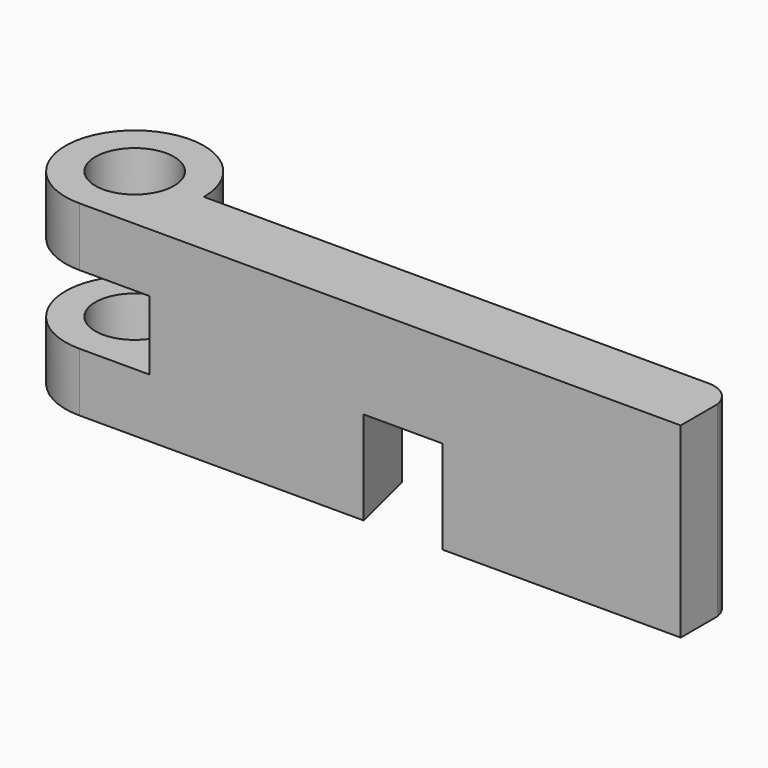
from build123d import *

# Parameters (mm, degrees)
F0_R     = 12.7
F1_DEPTH = 60.325
F2_DEPTH = 30.1625
F3_W     = 31.937063
F3_H     = 22.3266
F3_W_2   = 22.687722
F4_DEPTH = 56.743083
F6_DEPTH = 30.1625


with BuildPart() as f1:
    # F0 (on Top) → F1 (new body)
    with BuildSketch(Plane.XY):
        with BuildLine():
            Line((85.852, 0), (22.352, 0))
            ThreePointArc((22.352, 0), (-15.805251, 15.805251), (0, -22.352))
            Line((0, -22.352), (91.8464, -22.352))
            Line((91.8464, -22.352), (85.852, 0))
        make_face()
        Circle(F0_R, mode=Mode.SUBTRACT)
        Polygon((117.2464, 0), (85.852, 0), (91.8464, -22.352), (117.2464, -22.352), align=None)
        with BuildLine():
            Line((150.0886, 0), (117.2464, 0))
            Line((117.2464, 0), (117.2464, -22.352))
            Line((117.2464, -22.352), (194.2084, -22.352))
            Line((194.2084, -22.352), (194.2084, -7.573048))
            ThreePointArc((194.2084, -7.573048), (191.161905, -2.150228), (185.325414, 0))
            Line((185.325414, 0), (162.975117, 0))
            Line((162.975117, 0), (150.0886, 0))
        make_face()
    extrude(amount=F1_DEPTH)

    # F0 (on Top) → F2 (join)
    with BuildSketch(Plane.XY):
        with BuildLine():
            Line((85.852, 0), (22.352, 0))
            ThreePointArc((22.352, 0), (-15.805251, 15.805251), (0, -22.352))
            Line((0, -22.352), (91.8464, -22.352))
            Line((91.8464, -22.352), (85.852, 0))
        make_face()
        Circle(F0_R, mode=Mode.SUBTRACT)
        Polygon((117.2464, 0), (85.852, 0), (91.8464, -22.352), (117.2464, -22.352), align=None)
        with BuildLine():
            Line((150.0886, 0), (117.2464, 0))
            Line((117.2464, 0), (117.2464, -22.352))
            Line((117.2464, -22.352), (194.2084, -22.352))
            Line((194.2084, -22.352), (194.2084, -7.573048))
            ThreePointArc((194.2084, -7.573048), (191.161905, -2.150228), (185.325414, 0))
            Line((185.325414, 0), (162.975117, 0))
            Line((162.975117, 0), (150.0886, 0))
        make_face()
        with BuildLine():
            ThreePointArc((131.0386, 34.390083), (127.389769, 15.892719), (117.2464, 0))
            Line((117.2464, 0), (150.0886, 0))
            Line((150.0886, 0), (150.0886, 30.665313))
            ThreePointArc((150.0886, 30.665313), (148.268569, 33.353038), (145.192709, 34.390083))
            Line((145.192709, 34.390083), (131.0386, 34.390083))
        make_face()
    extrude(amount=F2_DEPTH)

    # F3 (on face) → F4 (cut, through all)
    with BuildSketch(Plane.XZ.offset(22.352)):
        with Locations((-15.968531, 30.1625)):
            Rectangle(F3_W, F3_H)
        with Locations((11.343861, 30.1625)):
            Rectangle(F3_W_2, F3_H)
    extrude(amount=-F4_DEPTH, mode=Mode.SUBTRACT)

    # F5 (on face) → F6 (cut)
    with BuildSketch(Plane(origin=(0, 0, 0), x_dir=(1, 0, 0), z_dir=(0, 0, -1))):
        Polygon((86.316593, 0), (117.2464, 0), (117.2464, 22.352), (91.8464, 22.352), align=None)
    extrude(amount=-F6_DEPTH, mode=Mode.SUBTRACT)


solid = f1.part
